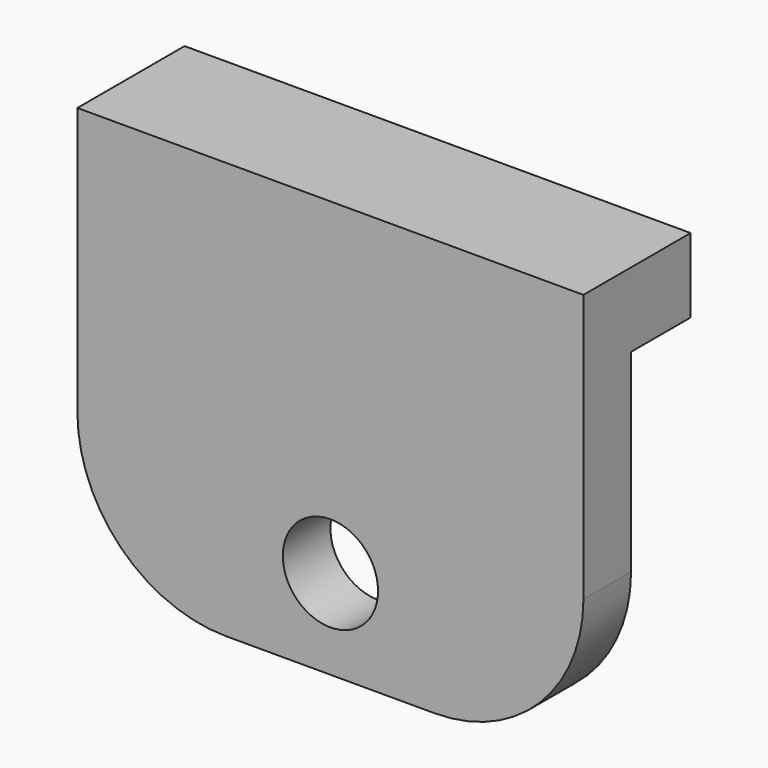
from build123d import *

# Parameters (mm, degrees)
CYLINDER073_R     = 1.6
CYLINDER073_DEPTH = 2
BOX185_W          = 17
BOX185_H          = 2
BOX185_DEPTH      = 14
FILLET043_R       = 5
BOX186_W          = 17
BOX186_H          = 2.5
BOX186_DEPTH      = 2.5


with BuildPart() as cylinder154:
    # Cylinder073 → Cylinder073 (new body)
    with BuildSketch(Plane(origin=(72, -19, -9), x_dir=(1, 0, 0), z_dir=(0, -1, 0))):
        Circle(CYLINDER073_R)
    extrude(amount=CYLINDER073_DEPTH)


with BuildPart() as fillet043:
    # Box185 → Box185 (new body)
    with BuildSketch(Plane(origin=(63.5, -21, -12), x_dir=(1, 0, 0), z_dir=(0, 0, 1))):
        with Locations((8.5, 1)):
            Rectangle(BOX185_W, BOX185_H)
    extrude(amount=BOX185_DEPTH)

    # Cut098: cut Cylinder154
    add(cylinder154.part, mode=Mode.SUBTRACT)

    # Fillet043
    fillet043_edges = [fillet043.edges().sort_by_distance(p)[0] for p in [
        (63.5, -20, -12),
        (80.5, -20, -12),
    ]]
    fillet(fillet043_edges, radius=FILLET043_R)


with BuildPart() as fusion058:
    # Box186 → Box186 (new body)
    with BuildSketch(Plane(origin=(63.5, -19, -0.5), x_dir=(1, 0, 0), z_dir=(0, 0, 1))):
        with Locations((8.5, 1.25)):
            Rectangle(BOX186_W, BOX186_H)
    extrude(amount=BOX186_DEPTH)

    # Fusion058: union Fillet043
    add(fillet043.part)


solid = fusion058.part
